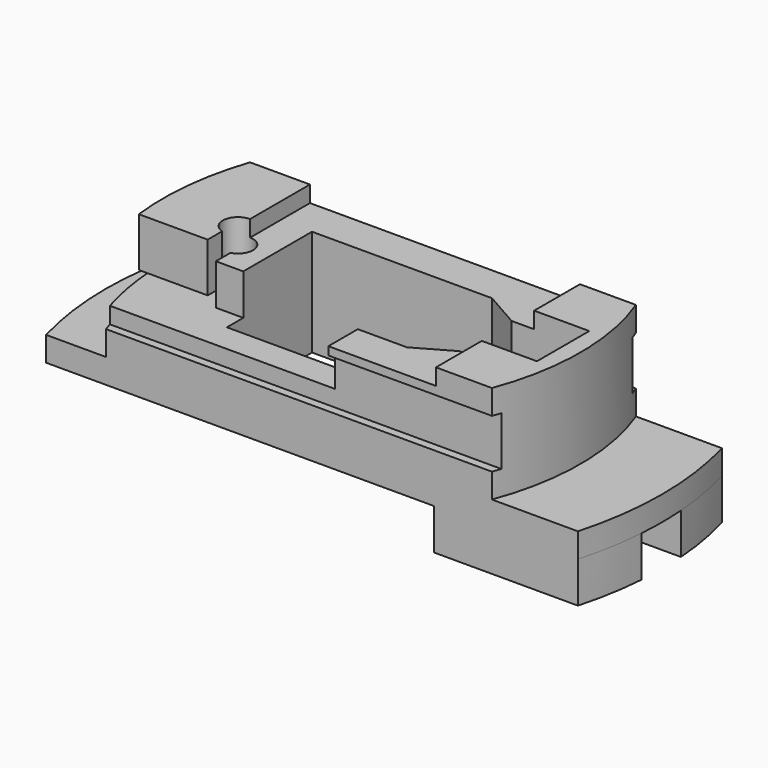
from build123d import *

# Parameters (mm, degrees)
F1_DEPTH      = 3
F3_DEPTH      = 5
F5_DEPTH      = 3.001
F7_DEPTH      = 12
F8_W          = 1
F8_H          = 6
F9_DEPTH      = 34.001
F9_DEPTH_BACK = 34.001
F10_R         = 1.85
F11_DEPTH     = 7.5
F13_DEPTH     = 2
F14_DEPTH     = 7
F18_DEPTH     = 16.65
F19_R         = 2
F20_DEPTH     = 5


with BuildPart() as f1:
    # F0 (on Top) → F1 (new body)
    with BuildSketch(Plane.XY):
        with BuildLine():
            ThreePointArc((32.5, -11), (34, 0), (32.5, 11))
            Line((32.5, 11), (-32.5, 11))
            ThreePointArc((-32.5, 11), (-34, 0), (-32.5, -11))
            Line((-32.5, -11), (32.5, -11))
        make_face()
    extrude(amount=-F1_DEPTH)

    # F2 (on face) → F3 (join)
    with BuildSketch(Plane(origin=(0, 0, -3), x_dir=(1, 0, 0), z_dir=(0, 0, -1))):
        with BuildLine():
            Line((-23, 3), (-33.8903201257, 3))
            ThreePointArc((-33.8903201257, 3), (-34, 0), (-33.8903201257, -3))
            Line((-33.8903201257, -3), (-23, -3))
            Line((-23, -3), (-23, 0))
            Line((-23, 0), (-23, 3))
        make_face()
        with BuildLine():
            Line((25.8903201257, 3), (33.8903201257, 3))
            ThreePointArc((33.8903201257, 3), (33.3932899234, 7.0344329916), (32.5, 11))
            Line((32.5, 11), (14.8903201257, 11))
            Line((14.8903201257, 11), (14.8903201257, 4))
            Line((14.8903201257, 4), (21.8903201257, 4))
            Line((21.8903201257, 4), (21.8903201257, 0))
            Line((21.8903201257, 0), (21.8903201257, -4))
            Line((21.8903201257, -4), (14.8903201257, -4))
            Line((14.8903201257, -4), (14.8903201257, -11))
            Line((14.8903201257, -11), (32.5, -11))
            ThreePointArc((32.5, -11), (33.3932899234, -7.0344329916), (33.8903201257, -3))
            Line((33.8903201257, -3), (25.8903201257, -3))
            Line((25.8903201257, -3), (25.8903201257, 0))
            Line((25.8903201257, 0), (25.8903201257, 3))
        make_face()
    extrude(amount=F3_DEPTH)

    # F4 (on face) → F5 (cut, through all)
    with BuildSketch(Plane(origin=(0, 0, -3), x_dir=(1, 0, 0), z_dir=(0, 0, -1))):
        Polygon((21.8903201257, -4), (21.8903201257, 4), (14.8903201257, 4), (12.3903201257, 4), (8, 6.5), (-14, 6.5), (-14, 0), (-14, -6.5), (8, -6.5), (12.3903201257, -4), (14.8903201257, -4), align=None)
    extrude(amount=-F5_DEPTH, mode=Mode.SUBTRACT)

    # F6 (on face) → F7 (join)
    with BuildSketch(Plane.XY):
        with BuildLine():
            Line((21.9885364227, 11), (-25.1761398662, 11))
            ThreePointArc((-25.1761398662, 11), (-27, 0), (-25.1761398662, -11))
            Line((-25.1761398662, -11), (21.9885364227, -11))
            ThreePointArc((21.9885364227, -11), (24, 0), (21.9885364227, 11))
        make_face()
        Polygon((12.3903201257, 4), (21.8903201257, 4), (21.8903201257, -4), (12.3903201257, -4), (8, -6.5), (-14, -6.5), (-14, 6.5), (8, 6.5), align=None, mode=Mode.SUBTRACT)
    extrude(amount=F7_DEPTH)

    # F8 (on Right) → F9 (cut, two sides)
    with BuildSketch(Plane.YZ) as f9_sk:
        with Locations((-10.5, 6)):
            Rectangle(F8_W, F8_H)
        with Locations((10.5, 6)):
            Rectangle(F8_W, F8_H)
    extrude(amount=-F9_DEPTH, mode=Mode.SUBTRACT)
    extrude(f9_sk.sketch, amount=F9_DEPTH_BACK, mode=Mode.SUBTRACT)

    # F10 (on face) → F11 (cut)
    with BuildSketch(Plane.XY.offset(12)):
        with Locations((-17.85, 0)):
            Circle(F10_R)
    extrude(amount=-F11_DEPTH, mode=Mode.SUBTRACT)

    # F12 (on face) → F13 (cut)
    with BuildSketch(Plane.XY.offset(12)):
        with BuildLine():
            Line((15.15, 11), (-17.85, 11))
            Line((-17.85, 11), (-17.85, 1.85))
            ThreePointArc((-17.85, 1.85), (-16.5418524548, 1.3081475452), (-16, 0))
            ThreePointArc((-16, 0), (-16.3756357302, -1.1174748319), (-17.35, -1.7811513131))
            Line((-17.35, -1.7811513131), (-17.35, -4))
            Line((-17.35, -4), (-14, -4))
            Line((-14, -4), (-14, 6.5))
            Line((-14, 6.5), (8, 6.5))
            Line((8, 6.5), (12.3903201257, 4))
            Line((12.3903201257, 4), (15.15, 4))
            Line((15.15, 4), (15.15, 11))
        make_face()
        Polygon((-17.35, -4), (-17.85, -4), (-17.85, -11), (2, -11), (2, -6.5), (-14, -6.5), (-14, -4), align=None)
        Polygon((15.15, -11), (15.15, -4), (12.3903201257, -4), (8, -6.5), (2, -6.5), (2, -11), align=None)
    extrude(amount=-F13_DEPTH, mode=Mode.SUBTRACT)

    # F12 (on face) → F14 (cut)
    with BuildSketch(Plane.XY.offset(12)):
        Polygon((-17.35, -4), (-17.85, -4), (-17.85, -11), (2, -11), (2, -6.5), (-14, -6.5), (-14, -4), align=None)
        with BuildLine():
            Line((-18.35, -4), (-26.7644673502, -4))
            ThreePointArc((-26.7644673502, -4), (-26.1550919462, -7.5419291994), (-25.1761398662, -11))
            Line((-25.1761398662, -11), (-17.85, -11))
            Line((-17.85, -11), (-17.85, -4))
            Line((-17.85, -4), (-18.35, -4))
        make_face()
        with BuildLine():
            ThreePointArc((-17.35, -1.7811513131), (-17.5976410584, -1.8327070046), (-17.85, -1.85))
            Line((-17.85, -1.85), (-17.85, -4))
            Line((-17.85, -4), (-17.35, -4))
            Line((-17.35, -4), (-17.35, -1.7811513131))
        make_face()
        with BuildLine():
            ThreePointArc((-17.85, -1.85), (-18.1023589416, -1.8327070046), (-18.35, -1.7811513131))
            Line((-18.35, -1.7811513131), (-18.35, -4))
            Line((-18.35, -4), (-17.85, -4))
            Line((-17.85, -4), (-17.85, -1.85))
        make_face()
    extrude(amount=-F14_DEPTH, mode=Mode.SUBTRACT)

    # F17 (on plane+point) → F18 (cut, through all)
    with BuildSketch(Plane.YZ.offset(-34)):
        with BuildLine():
            Line((-4, 6), (-4, 5))
            Line((-4, 5), (0, 5))
            ThreePointArc((0, 5), (0.5, 5.5), (0, 6))
            Line((0, 6), (-4, 6))
        make_face()
    extrude(amount=F18_DEPTH, mode=Mode.SUBTRACT)

    # F19 (on face) → F20 (join)
    with BuildSketch(Plane(origin=(21.8903201257, 0, 0), x_dir=(0, -1, 0), z_dir=(-1, 0, 0))):
        with Locations((0, 6)):
            Circle(F19_R)
    extrude(amount=F20_DEPTH)


solid = f1.part
